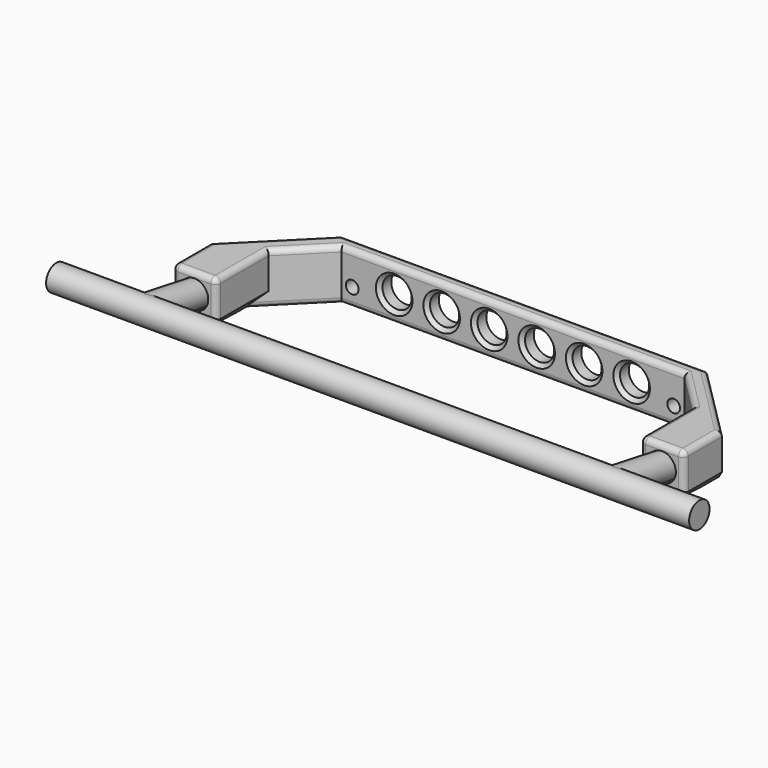
from build123d import *

# Parameters (mm, degrees)
CYLINDER003_R           = 3.5
CYLINDER003_DEPTH       = 176
CYLINDER003_PITCH_ANGLE = 90
CYLINDER005_R           = 3.5
CYLINDER005_DEPTH       = 20
CYLINDER005_ROLL_ANGLE  = -90
CYLINDER004_R           = 3.5
CYLINDER004_DEPTH       = 20
CYLINDER004_ROLL_ANGLE  = -90
FUSION002_ROLL_ANGLE    = -10
SKETCH002_R             = 4
PAD002_DEPTH            = 20
PAD001_DEPTH            = 185
CYLINDER006_R           = 1.75
CYLINDER006_DEPTH       = 30
CYLINDER006_ROLL_ANGLE  = 90
CYLINDER007_R           = 1.75
CYLINDER007_DEPTH       = 30
CYLINDER007_ROLL_ANGLE  = 90
CYLINDER_R              = 3.8
CYLINDER_DEPTH          = 40
CYLINDER002_R           = 3.8
CYLINDER002_DEPTH       = 40
CYLINDER001_R           = 2.25
CYLINDER001_DEPTH       = 50
FUSION_PLACEMENT_ANGLE  = 80
PAD_DEPTH               = 14
CHAMFER_SIZE            = 4
CHAMFER001_SIZE         = 1
FILLET_R                = 1.5


with BuildPart() as cylinder003:
    # Cylinder003 → Cylinder003 (new body)
    with BuildSketch(Plane.XY):
        Circle(CYLINDER003_R)
    extrude(amount=CYLINDER003_DEPTH)


with BuildPart() as cylinder003_1:
    # Cylinder003 pitch: moved
    add(cylinder003.part.rotate(Axis((0, 0, 0), (0, 1, 0)), CYLINDER003_PITCH_ANGLE))


with BuildPart() as cylinder003_2:
    # Cylinder003 placement: moved
    add(cylinder003_1.part.moved(Location((-88, -51, 0))))


with BuildPart() as cylinder005:
    # Cylinder005 → Cylinder005 (new body)
    with BuildSketch(Plane.XY):
        Circle(CYLINDER005_R)
    extrude(amount=CYLINDER005_DEPTH)


with BuildPart() as cylinder005_1:
    # Cylinder005 roll: moved
    add(cylinder005.part.rotate(Axis((0, 0, 0), (1, 0, 0)), CYLINDER005_ROLL_ANGLE))


with BuildPart() as cylinder005_2:
    # Cylinder005 placement: moved
    add(cylinder005_1.part.moved(Location((64, -51, 0))))


with BuildPart() as fusion002:
    # Cylinder004 → Cylinder004 (new body)
    with BuildSketch(Plane.XY):
        Circle(CYLINDER004_R)
    extrude(amount=CYLINDER004_DEPTH)


with BuildPart() as fusion002_1:
    # Cylinder004 roll: moved
    add(fusion002.part.rotate(Axis((0, 0, 0), (1, 0, 0)), CYLINDER004_ROLL_ANGLE))


with BuildPart() as fusion002_2:
    # Cylinder004 placement: moved
    add(fusion002_1.part.moved(Location((-64, -51, 0))))

    # Fusion002: union Cylinder003, Cylinder005
    add(cylinder003_2.part)
    add(cylinder005_2.part)


with BuildPart() as fusion002_3:
    # Fusion002 roll: moved
    add(fusion002_2.part.rotate(Axis((0, 0, 0), (1, 0, 0)), FUSION002_ROLL_ANGLE))


with BuildPart() as fusion002_4:
    # Fusion002 placement: moved
    add(fusion002_3.part.moved(Location((0, 10, 3))))


with BuildPart() as pad002:
    # Sketch002 → Pad002 (new body)
    with BuildSketch(Plane(origin=(0, 0, 0), x_dir=(-1, 0, 0), z_dir=(0, 1, 0))):
        with Locations((-32.5, 7)):
            Circle(SKETCH002_R)
        with Locations((-19.5, 7)):
            Circle(SKETCH002_R)
        with Locations((-6.5, 7)):
            Circle(SKETCH002_R)
        with Locations((6.5, 7)):
            Circle(SKETCH002_R)
        with Locations((19.5, 7)):
            Circle(SKETCH002_R)
        with Locations((32.5, 7)):
            Circle(SKETCH002_R)
    extrude(amount=PAD002_DEPTH)


with BuildPart() as pad001:
    # Sketch001 → Pad001 (new body)
    with BuildSketch(Plane.YZ.offset(90)):
        Polygon((-29.346644, 3.171122), (2.815821, -2.499988), (-29.346644, -2.499988), align=None)
    extrude(amount=-PAD001_DEPTH)


with BuildPart() as cylinder006:
    # Cylinder006 → Cylinder006 (new body)
    with BuildSketch(Plane.XY):
        Circle(CYLINDER006_R)
    extrude(amount=CYLINDER006_DEPTH)


with BuildPart() as cylinder006_1:
    # Cylinder006 roll: moved
    add(cylinder006.part.rotate(Axis((0, 0, 0), (1, 0, 0)), CYLINDER006_ROLL_ANGLE))


with BuildPart() as cylinder006_2:
    # Cylinder006 placement: moved
    add(cylinder006_1.part.moved(Location((44, 20, 4))))


with BuildPart() as fusion003:
    # Cylinder007 → Cylinder007 (new body)
    with BuildSketch(Plane.XY):
        Circle(CYLINDER007_R)
    extrude(amount=CYLINDER007_DEPTH)


with BuildPart() as fusion003_1:
    # Cylinder007 roll: moved
    add(fusion003.part.rotate(Axis((0, 0, 0), (1, 0, 0)), CYLINDER007_ROLL_ANGLE))


with BuildPart() as fusion003_2:
    # Cylinder007 placement: moved
    add(fusion003_1.part.moved(Location((-44, 20, 4))))

    # Fusion003: union Cylinder006
    add(cylinder006_2.part)


with BuildPart() as fusion003_3:
    # Fusion003 placement: moved
    add(fusion003_2.part.moved(Location((0, 0, 1))))


with BuildPart() as cylinder:
    # Cylinder → Cylinder (new body)
    with BuildSketch(Plane.XY.offset(21)):
        Circle(CYLINDER_R)
    extrude(amount=CYLINDER_DEPTH)


with BuildPart() as cylinder002:
    # Cylinder002 → Cylinder002 (new body)
    with BuildSketch(Plane.XY.offset(-24)):
        Circle(CYLINDER002_R)
    extrude(amount=CYLINDER002_DEPTH)


with BuildPart() as fusion:
    # Cylinder001 → Cylinder001 (new body)
    with BuildSketch(Plane.XY.offset(-19)):
        Circle(CYLINDER001_R)
    extrude(amount=CYLINDER001_DEPTH)

    # Fusion: union Cylinder, Cylinder002
    add(cylinder.part)
    add(cylinder002.part)


with BuildPart() as fusion_1:
    # Fusion placement: moved
    add(fusion.part.moved(Location((64, 0, 4.5))).rotate(Axis((64, 0, 4.5), (1, 0, 0)), FUSION_PLACEMENT_ANGLE))


with BuildPart() as part_mirroring:
    # Part__Mirroring: instance of Fusion
    add(fusion_1.part.mirror(Plane(origin=(0, 0, 0), x_dir=(0, -1, 0), z_dir=(1, 0, 0))))


with BuildPart() as fusion001:
    # Fusion001 base: copy of Fusion
    add(fusion_1.part)

    # Fusion001: union Part__Mirroring
    add(part_mirroring.part)


with BuildPart() as fillet_body:
    # Sketch → Pad (new body)
    with BuildSketch(Plane.XY):
        Polygon((-70, -23), (-70, -10), (-50, 10), (50, 10), (70, -10), (70, -23), (58, -23), (58, -5.071068), (46.928932, 6), (-46.928932, 6), (-58, -5.071068), (-58, -23), align=None)
    extrude(amount=PAD_DEPTH)

    # Cut: cut Fusion001
    add(fusion001.part, mode=Mode.SUBTRACT)

    # Chamfer
    chamfer_edges = [fillet_body.edges().sort_by_distance(p)[0] for p in [
        (-70, -16.5, 0),
        (70, -16.5, 0),
        (58, -14.035534, 0),
        (-58, -14.035534, 0),
    ]]
    chamfer(chamfer_edges, length=CHAMFER_SIZE)

    # Cut001: cut Fusion003
    add(fusion003_3.part, mode=Mode.SUBTRACT)

    # Cut002: cut Pad001
    add(pad001.part, mode=Mode.SUBTRACT)

    # Cut003: cut Pad002
    add(pad002.part, mode=Mode.SUBTRACT)

    # Chamfer001
    chamfer001_edges = [fillet_body.edges().sort_by_distance(p)[0] for p in [
        (-28.5, 6, 7),
        (-15.5, 6, 7),
        (-2.5, 6, 7),
        (36.5, 6, 7),
        (23.5, 6, 7),
        (10.5, 6, 7),
    ]]
    chamfer(chamfer001_edges, length=CHAMFER001_SIZE)

    # Fillet
    fillet_edges = [fillet_body.edges().sort_by_distance(p)[0] for p in [
        (0, 6, 0),
        (0, 6, 14),
        (52.464466, 0.464466, 14),
        (52.464466, 0.464466, 0),
        (-52.464466, 0.464466, 0),
        (-70, -16.5, 14),
        (-60, 0, 14),
        (0, 10, 14),
        (60, 0, 14),
        (70, -16.5, 14),
        (64, -23, 14),
        (58, -14.035534, 14),
        (-52.464466, 0.464466, 14),
        (-58, -14.035534, 14),
        (-64, -23, 14),
        (58, -23, 9),
        (58.973981, -23, 3.026019),
        (-69.026019, -23, 3.026019),
        (-64, -23, 2.052038),
        (-58.973981, -23, 3.026019),
        (64, -23, 2.052038),
        (69.026019, -23, 3.026019),
        (-70, -23, 9),
        (70, -23, 9),
        (-58, -23, 9),
    ]]
    fillet(fillet_edges, radius=FILLET_R)


solid = Compound([fusion002_4.part, fillet_body.part])
